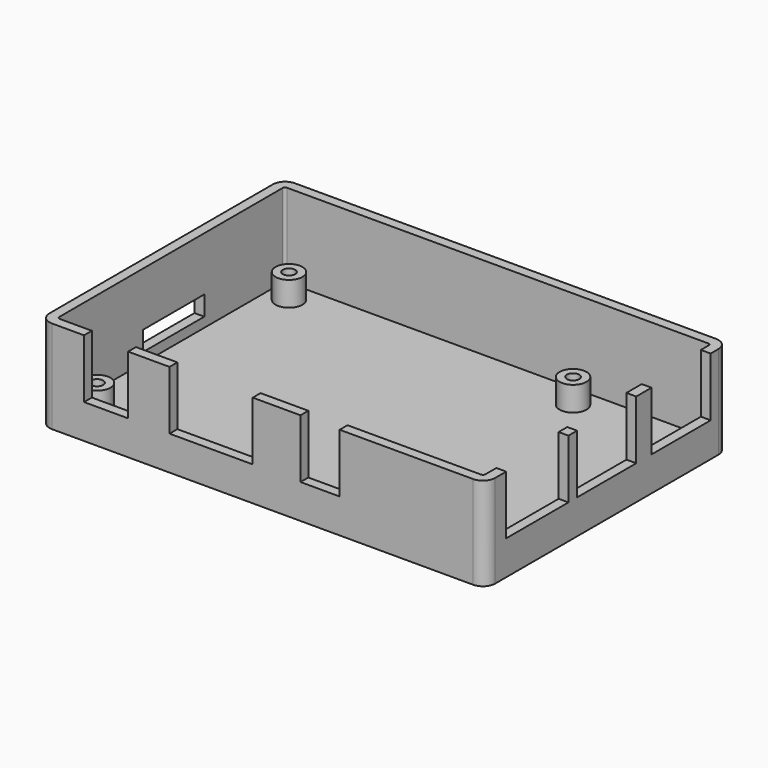
from build123d import *

# Parameters (mm, degrees)
F1_DEPTH = 2
F2_DEPTH = 19
F3_R     = 2.75
F3_R_2   = 1.25
F4_DEPTH = 5
F5_W     = 9
F5_H     = 2
F5_W_2   = 17
F5_W_3   = 8
F5_W_4   = 2
F5_H_2   = 15.9
F5_H_3   = 15.1
F6_DEPTH = 12
F7_W     = 15.6
F7_H     = 4
F8_DEPTH = 2


with BuildPart() as f1:
    # F0 (on Top) → F1 (new body)
    with BuildSketch(Plane.XY):
        with BuildLine():
            ThreePointArc((0, 2.5), (0.732233047, 0.732233047), (2.5, 0))
            Line((2.5, 0), (88.5, 0))
            ThreePointArc((88.5, 0), (90.267766953, 0.732233047), (91, 2.5))
            Line((91, 2.5), (91, 59.5))
            ThreePointArc((91, 59.5), (90.267766953, 61.267766953), (88.5, 62))
            Line((88.5, 62), (2.5, 62))
            ThreePointArc((2.5, 62), (0.732233047, 61.267766953), (0, 59.5))
            Line((0, 59.5), (0, 2.5))
        make_face()
        with BuildLine():
            ThreePointArc((2, 59.5), (2.1464466094, 59.8535533906), (2.5, 60))
            Line((2.5, 60), (88.5, 60))
            ThreePointArc((88.5, 60), (88.8535533906, 59.8535533906), (89, 59.5))
            Line((89, 59.5), (89, 2.5))
            ThreePointArc((89, 2.5), (88.8535533906, 2.1464466094), (88.5, 2))
            Line((88.5, 2), (2.5, 2))
            ThreePointArc((2.5, 2), (2.1464466094, 2.1464466094), (2, 2.5))
            Line((2, 2.5), (2, 59.5))
        make_face(mode=Mode.SUBTRACT)
        with BuildLine():
            Line((88.5, 60), (2.5, 60))
            ThreePointArc((2.5, 60), (2.1464466094, 59.8535533906), (2, 59.5))
            Line((2, 59.5), (2, 2.5))
            ThreePointArc((2, 2.5), (2.1464466094, 2.1464466094), (2.5, 2))
            Line((2.5, 2), (88.5, 2))
            ThreePointArc((88.5, 2), (88.8535533906, 2.1464466094), (89, 2.5))
            Line((89, 2.5), (89, 59.5))
            ThreePointArc((89, 59.5), (88.8535533906, 59.8535533906), (88.5, 60))
        make_face()
    extrude(amount=F1_DEPTH)

    # F0 (on Top) → F2 (join)
    with BuildSketch(Plane.XY):
        with BuildLine():
            ThreePointArc((0, 2.5), (0.732233047, 0.732233047), (2.5, 0))
            Line((2.5, 0), (88.5, 0))
            ThreePointArc((88.5, 0), (90.267766953, 0.732233047), (91, 2.5))
            Line((91, 2.5), (91, 59.5))
            ThreePointArc((91, 59.5), (90.267766953, 61.267766953), (88.5, 62))
            Line((88.5, 62), (2.5, 62))
            ThreePointArc((2.5, 62), (0.732233047, 61.267766953), (0, 59.5))
            Line((0, 59.5), (0, 2.5))
        make_face()
        with BuildLine():
            ThreePointArc((2, 59.5), (2.1464466094, 59.8535533906), (2.5, 60))
            Line((2.5, 60), (88.5, 60))
            ThreePointArc((88.5, 60), (88.8535533906, 59.8535533906), (89, 59.5))
            Line((89, 59.5), (89, 2.5))
            ThreePointArc((89, 2.5), (88.8535533906, 2.1464466094), (88.5, 2))
            Line((88.5, 2), (2.5, 2))
            ThreePointArc((2.5, 2), (2.1464466094, 2.1464466094), (2, 2.5))
            Line((2, 2.5), (2, 59.5))
        make_face(mode=Mode.SUBTRACT)
    extrude(amount=F2_DEPTH)

    # F3 (on face) → F4 (join)
    with BuildSketch(Plane.XY.offset(2)):
        with Locations((6.5, 55.5)):
            Circle(F3_R)
        with Locations((6.5, 55.5)):
            Circle(F3_R_2, mode=Mode.SUBTRACT)
        with Locations((64.5, 55.5)):
            Circle(F3_R)
        with Locations((64.5, 55.5)):
            Circle(F3_R_2, mode=Mode.SUBTRACT)
        with Locations((6.5, 6.5)):
            Circle(F3_R)
        with Locations((6.5, 6.5)):
            Circle(F3_R_2, mode=Mode.SUBTRACT)
        with Locations((64.5, 6.5)):
            Circle(F3_R)
        with Locations((64.5, 6.5)):
            Circle(F3_R_2, mode=Mode.SUBTRACT)
    extrude(amount=F4_DEPTH)

    # F5 (on face) → F6 (cut)
    with BuildSketch(Plane.XY.offset(19)):
        with Locations((13.55, 1)):
            Rectangle(F5_W, F5_H)
        with Locations((35, 1)):
            Rectangle(F5_W_2, F5_H)
        with Locations((57.25, 1)):
            Rectangle(F5_W_3, F5_H)
        with Locations((90, 13.25)):
            Rectangle(F5_W_4, F5_H_2)
        with Locations((90, 30.95)):
            Rectangle(F5_W_4, F5_H_3)
        with Locations((90, 49.95)):
            Rectangle(F5_W_4, F5_H_3)
    extrude(amount=-F6_DEPTH, mode=Mode.SUBTRACT)

    # F7 (on face) → F8 (cut)
    with BuildSketch(Plane(origin=(0, 0, 0), x_dir=(0, -1, 0), z_dir=(-1, 0, 0))):
        with Locations((-31.7, 6)):
            Rectangle(F7_W, F7_H)
    extrude(amount=-F8_DEPTH, mode=Mode.SUBTRACT)


solid = f1.part
